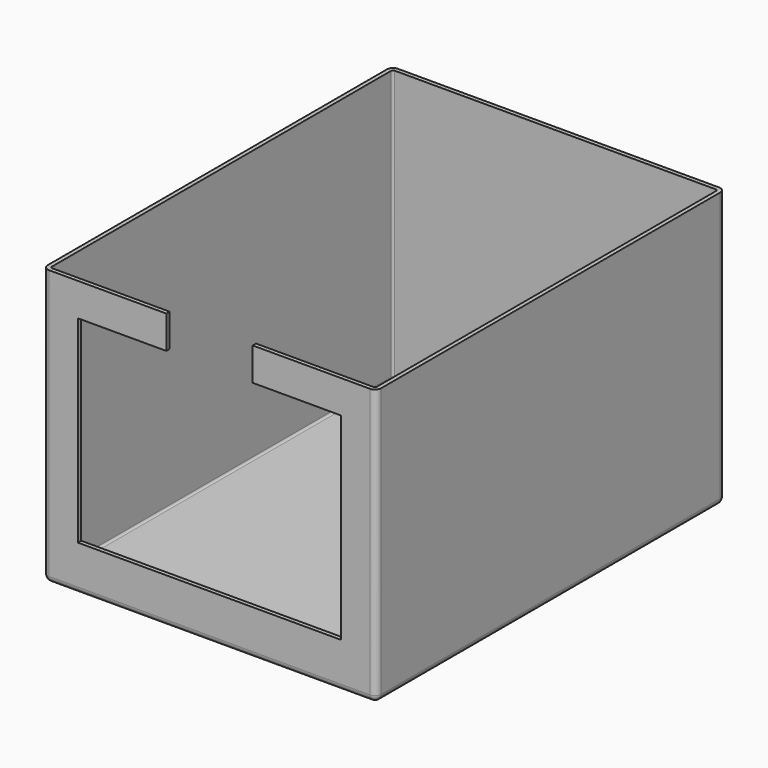
from build123d import *

# Parameters (mm, degrees)
BOX040_W     = 12.8
BOX040_H     = 0.2
BOX040_DEPTH = 9.6
BOX041_W     = 4.2
BOX041_H     = 0.2
BOX041_DEPTH = 1.6
BOX007_W     = 15.8
BOX007_H     = 20.8
BOX007_DEPTH = 13.2
FILLET008_R  = 0.1
BOX039_W     = 16.2
BOX039_H     = 21.2
BOX039_DEPTH = 13.4
FILLET015_R  = 0.3


with BuildPart() as cube032:
    # Box040 → Box040 (new body)
    with BuildSketch(Plane(origin=(-6.4, 0, 2.2), x_dir=(1, 0, 0), z_dir=(0, 0, 1))):
        with Locations((6.4, 0.1)):
            Rectangle(BOX040_W, BOX040_H)
    extrude(amount=BOX040_DEPTH)


with BuildPart() as cube033:
    # Box041 → Box041 (new body)
    with BuildSketch(Plane(origin=(-2.1, 0, 11.8), x_dir=(1, 0, 0), z_dir=(0, 0, 1))):
        with Locations((2.1, 0.1)):
            Rectangle(BOX041_W, BOX041_H)
    extrude(amount=BOX041_DEPTH)


with BuildPart() as fusion042:
    # Box007 → Box007 (new body)
    with BuildSketch(Plane(origin=(-7.9, 0.2, 0.2), x_dir=(1, 0, 0), z_dir=(0, 0, 1))):
        with Locations((7.9, 10.4)):
            Rectangle(BOX007_W, BOX007_H)
    extrude(amount=BOX007_DEPTH)

    # Fillet008
    fillet008_edges = [fusion042.edges().sort_by_distance(p)[0] for p in [
        (-7.9, 0.2, 6.8),
        (-7.9, 21, 6.8),
        (-7.9, 10.6, 0.2),
        (7.9, 0.2, 6.8),
        (7.9, 21, 6.8),
        (7.9, 10.6, 0.2),
        (0, 0.2, 0.2),
        (0, 21, 0.2),
    ]]
    fillet(fillet008_edges, radius=FILLET008_R)

    # Fusion042: union Cube032, Cube033
    add(cube032.part)
    add(cube033.part)


with BuildPart() as shield001:
    # Box039 → Box039 (new body)
    with BuildSketch(Plane(origin=(-8.1, 0, 0), x_dir=(1, 0, 0), z_dir=(0, 0, 1))):
        with Locations((8.1, 10.6)):
            Rectangle(BOX039_W, BOX039_H)
    extrude(amount=BOX039_DEPTH)

    # Fillet015
    fillet015_edges = [shield001.edges().sort_by_distance(p)[0] for p in [
        (-8.1, 0, 6.7),
        (-8.1, 21.2, 6.7),
        (-8.1, 10.6, 0),
        (8.1, 0, 6.7),
        (8.1, 21.2, 6.7),
        (8.1, 10.6, 0),
        (0, 0, 0),
        (0, 21.2, 0),
    ]]
    fillet(fillet015_edges, radius=FILLET015_R)

    # Cut009: cut Fusion042
    add(fusion042.part, mode=Mode.SUBTRACT)


solid = shield001.part
